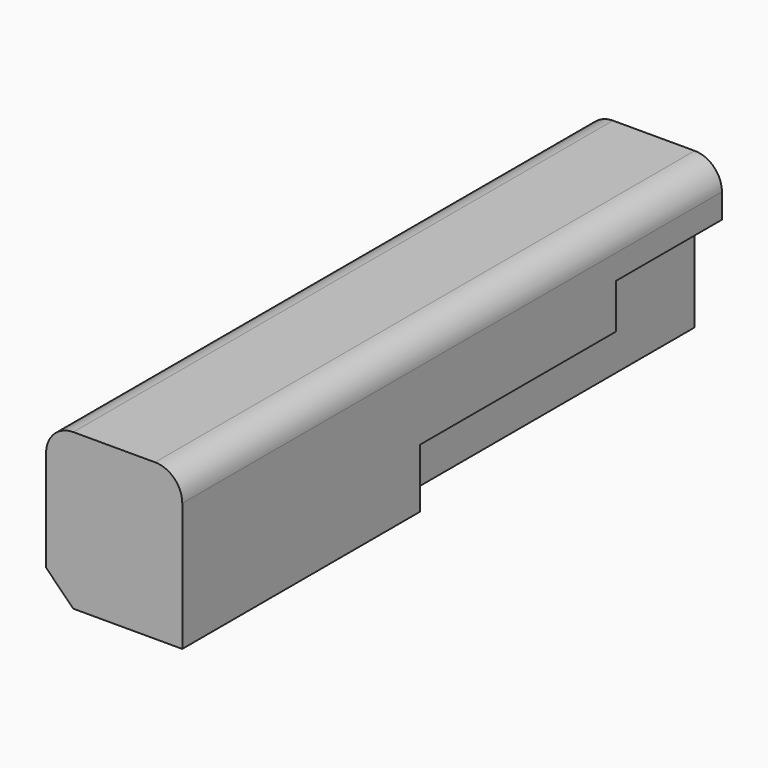
from build123d import *

# Parameters (mm, degrees)
F1_DEPTH  = 25.4
F2_R      = 5.08
F3_R      = 5.08
F4_SIZE   = 5.08
F5_R      = 6.332586
F1_FACE_W = 15.24
F1_FACE_H = 125.814986
F6_DEPTH  = 28.999906


with BuildPart() as f1:
    # F0 (on Right) → F1 (new body)
    with BuildSketch(Plane.YZ):
        Polygon((70.343368, 0), (-55.471618, 0), (-55.471618, -28.999906), (0, -28.999906), (0, -17.994815), (45.656264, -17.994815), (45.656264, -9.666636), (70.343368, -9.666636), align=None)
    extrude(amount=F1_DEPTH)

    # F2
    f2_edges = [f1.edges().sort_by_distance(p)[0] for p in [
        (25.4, 7.435875, 0),
    ]]
    fillet(f2_edges, radius=F2_R)

    # F3
    f3_edges = [f1.edges().sort_by_distance(p)[0] for p in [
        (0, 7.435875, 0),
    ]]
    fillet(f3_edges, radius=F3_R)

    # F4
    f4_edges = [f1.edges().sort_by_distance(p)[0] for p in [
        (0, -27.735809, -28.999906),
        (0, 22.828132, -17.994815),
    ]]
    chamfer(f4_edges, length=F4_SIZE)

    # F5 (on Top) + F1_face (on face) → F6 (join, through all)
    with BuildSketch(Plane.XY):
        with Locations((12.965518, 0)):
            Circle(F5_R)
    with BuildSketch(Plane(origin=(12.7, 7.435875, 0), x_dir=(1, 0, 0), z_dir=(0, 0, 1))):
        Rectangle(F1_FACE_W, F1_FACE_H)
    extrude(amount=-F6_DEPTH)


solid = f1.part
